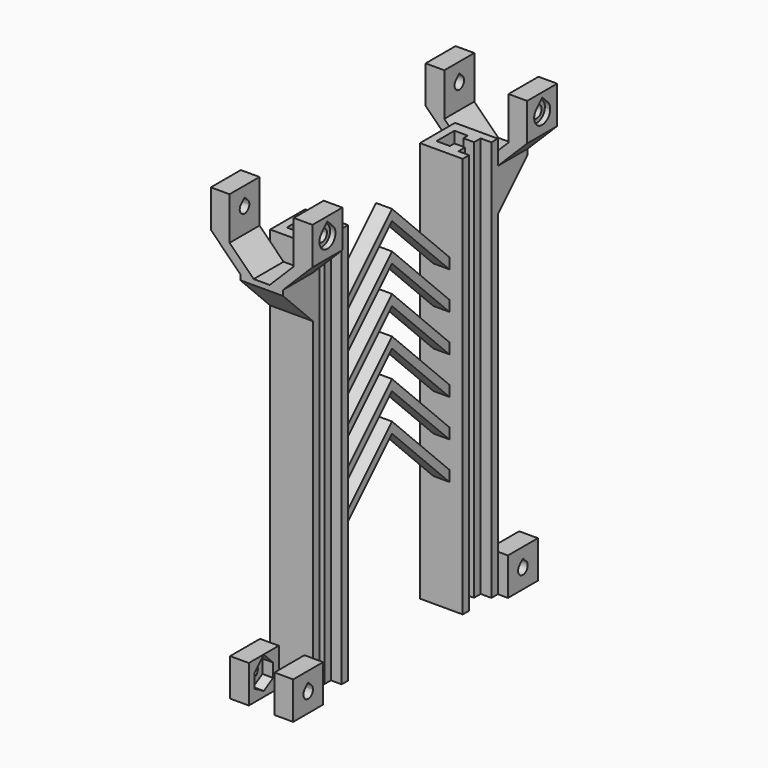
from build123d import *

# Parameters (mm, degrees)
F0_W      = 3
F0_H      = 8.4
F1_DEPTH  = 150
F4_DEPTH  = 4
F5_W      = 14
F5_H      = 14
F6_DEPTH  = 3
F10_DEPTH = 16
F12_DEPTH = 14
F14_DEPTH = 5
F15_W     = 14
F15_H     = 14
F16_DEPTH = 2
F19_DEPTH = 11
F20_DEPTH = 5


with BuildPart() as f1:
    # F0 (on Top) → F1 (new body)
    with BuildSketch(Plane.XY):
        Polygon((-3, 0), (0, 0), (5, 0), (5, -2.1), (9, -2.1), (9, 1), (13, 1), (13, 4), (-3, 4), align=None)
        Polygon((5, -8.4), (0, -8.4), (-3, -8.4), (-3, -12.4), (5, -12.4), (9.8, -12.4), (13, -12.4), (13, -9.4), (9, -9.4), (9, -6.3), (5, -6.3), align=None)
        with Locations((-1.5, -4.2)):
            Rectangle(F0_W, F0_H)
    extrude(amount=F1_DEPTH)

    # F8: F4 across plane


with BuildPart() as f4:
    # F3 (on line) → F4 (new body)
    with BuildSketch(Plane.YZ.offset(9.8)):
        Polygon((-19.4, 0), (-12.4, 0), (-12.4, 14), (-26.4, 14), (-26.4, 0), align=None)
        with BuildLine():
            ThreePointArc((-15.0265717109, 4.475), (-16.875, 2.6265717109), (-19.4, 1.95))
            ThreePointArc((-19.4, 1.95), (-21.925, 2.6265717109), (-23.7734282891, 4.475))
            ThreePointArc((-23.7734282891, 4.475), (-24.2779254228, 5.6929638222), (-24.45, 7))
            ThreePointArc((-24.45, 7), (-24.2779254228, 8.3070361778), (-23.7734282891, 9.525))
            ThreePointArc((-23.7734282891, 9.525), (-22.970889245, 10.570889245), (-21.925, 11.3734282891))
            Line((-21.925, 11.3734282891), (-19.4, 13.8984282891))
            Line((-19.4, 13.8984282891), (-16.875, 11.3734282891))
            ThreePointArc((-16.875, 11.3734282891), (-15.829110755, 10.570889245), (-15.0265717109, 9.525))
            ThreePointArc((-15.0265717109, 9.525), (-14.5220745772, 8.3070361778), (-14.35, 7))
            ThreePointArc((-14.35, 7), (-14.5220745772, 5.6929638222), (-15.0265717109, 4.475))
        make_face(mode=Mode.SUBTRACT)
        with BuildLine():
            Line((-15.0265717109, 9.525), (-15.0265717109, 4.475))
            ThreePointArc((-15.0265717109, 4.475), (-14.5220745772, 5.6929638222), (-14.35, 7))
            ThreePointArc((-14.35, 7), (-14.5220745772, 8.3070361778), (-15.0265717109, 9.525))
        make_face()
        with BuildLine():
            Line((-15.0265717109, 4.475), (-19.4, 1.95))
            ThreePointArc((-19.4, 1.95), (-16.875, 2.6265717109), (-15.0265717109, 4.475))
        make_face()
        with BuildLine():
            ThreePointArc((-23.7734282891, 4.475), (-21.925, 2.6265717109), (-19.4, 1.95))
            Line((-19.4, 1.95), (-23.7734282891, 4.475))
        make_face()
        with BuildLine():
            ThreePointArc((-24.45, 7), (-24.2779254228, 5.6929638222), (-23.7734282891, 4.475))
            Line((-23.7734282891, 4.475), (-23.7734282891, 7))
            Line((-23.7734282891, 7), (-24.45, 7))
        make_face()
        Polygon((-24.45, 7), (-23.7734282891, 7), (-23.7734282891, 7.6765717109), align=None)
        with BuildLine():
            ThreePointArc((-23.7734282891, 9.525), (-24.2779254228, 8.3070361778), (-24.45, 7))
            Line((-24.45, 7), (-23.7734282891, 7.6765717109))
            Line((-23.7734282891, 7.6765717109), (-23.7734282891, 9.525))
        make_face()
        with BuildLine():
            ThreePointArc((-21.925, 11.3734282891), (-22.970889245, 10.570889245), (-23.7734282891, 9.525))
            Line((-23.7734282891, 9.525), (-21.925, 11.3734282891))
        make_face()
        with BuildLine():
            Line((-16.875, 11.3734282891), (-15.0265717109, 9.525))
            ThreePointArc((-15.0265717109, 9.525), (-15.829110755, 10.570889245), (-16.875, 11.3734282891))
        make_face()
    extrude(amount=F4_DEPTH)

    # F5 (on face) → F6 (join)
    with BuildSketch(Plane.YZ.offset(13.8)):
        with Locations((-19.4, 7)):
            Rectangle(F5_W, F5_H)
        Polygon((-23.7734282891, 9.525), (-19.4, 13.8984282891), (-15.0265717109, 9.525), (-15.0265717109, 4.475), (-19.4, 1.95), (-23.7734282891, 4.475), align=None, mode=Mode.SUBTRACT)
        Polygon((-15.0265717109, 9.525), (-19.4, 13.8984282891), (-23.7734282891, 9.525), (-23.7734282891, 4.475), (-19.4, 1.95), (-15.0265717109, 4.475), align=None)
        with BuildLine():
            ThreePointArc((-17.8090097423, 8.5909902577), (-17.3212710518, 7.8610377228), (-17.15, 7))
            ThreePointArc((-17.15, 7), (-20.2610377228, 4.9212710518), (-20.9909902577, 8.5909902577))
            Line((-20.9909902577, 8.5909902577), (-19.4, 10.1819805153))
            Line((-19.4, 10.1819805153), (-17.8090097423, 8.5909902577))
        make_face(mode=Mode.SUBTRACT)
    extrude(amount=F6_DEPTH)


with BuildPart() as f1_1:
    add(f1.part)
    add(f4.part.mirror(Plane.YZ.offset(5)))



with BuildPart() as f10:
    # F9 (on face) → F10 (new body)
    with BuildSketch(Plane(origin=(-3, 0, 0), x_dir=(0, -1, 0), z_dir=(-1, 0, 0))):
        Polygon((26.4, 141), (12.4, 141), (12.4, 125), (26.4, 139), align=None)
    extrude(amount=-F10_DEPTH)


with BuildPart() as f12:
    # F11 (on face) → F12 (new body)
    with BuildSketch(Plane.XZ.offset(26.4)):
        Polygon((8, 141), (13, 141), (24, 152), (17, 152), (17, 150), align=None)
    extrude(amount=-F12_DEPTH)


with BuildPart() as f12b:
    # F11 (on face) → F12, piece 2 (new body)
    with BuildSketch(Plane.XZ.offset(26.4)):
        Polygon((-3, 141), (2, 141), (-7, 150), (-7, 152), (-14, 152), align=None)
    extrude(amount=-F12_DEPTH)


with BuildPart() as f14:
    # F13 (on face) → F14 (new body)
    with BuildSketch(Plane.YZ.offset(-7)):
        Polygon((-26.4, 152), (-19.4, 152), (-12.4, 152), (-12.4, 166), (-26.4, 166), align=None)
        with BuildLine():
            ThreePointArc((-17.15, 159), (-17.8090097423, 157.4090097423), (-19.4, 156.75))
            ThreePointArc((-19.4, 156.75), (-21.4787289482, 158.1389622772), (-20.9909902577, 160.5909902577))
            Line((-20.9909902577, 160.5909902577), (-19.4, 162.1819805153))
            Line((-19.4, 162.1819805153), (-17.8090097423, 160.5909902577))
            ThreePointArc((-17.8090097423, 160.5909902577), (-17.3212710518, 159.8610377228), (-17.15, 159))
        make_face(mode=Mode.SUBTRACT)
    extrude(amount=-F14_DEPTH)


with BuildPart() as f16:
    # F15 (on face) → F16 (new body)
    with BuildSketch(Plane(origin=(-12, 0, 0), x_dir=(0, -1, 0), z_dir=(-1, 0, 0))):
        with Locations((19.4, 159)):
            Rectangle(F15_W, F15_H)
        with BuildLine():
            ThreePointArc((22.0516504294, 161.6516504294), (22.8645482469, 160.4350628714), (23.15, 159))
            ThreePointArc((23.15, 159), (17.9649371286, 155.5354517531), (16.7483495706, 161.6516504294))
            Line((16.7483495706, 161.6516504294), (19.4, 164.3033008589))
            Line((19.4, 164.3033008589), (22.0516504294, 161.6516504294))
        make_face(mode=Mode.SUBTRACT)
    extrude(amount=F16_DEPTH)


with BuildPart() as f1_2:
    add(f1_1.part)

    add(f4.part)  # F17 merges F4

    add(f10.part)  # F17 merges F10

    add(f12.part)  # F17 merges F12

    add(f12b.part)  # F17 merges F12b

    add(f14.part)  # F17 merges F14

    add(f16.part)  # F17 merges F16
    # F17: F14, F16 across plane
    add(f14.part.mirror(Plane.YZ.offset(5)))
    add(f16.part.mirror(Plane.YZ.offset(5)))


with BuildPart() as f19:
    # F18 (on face) → F19 (new body)
    with BuildSketch(Plane(origin=(-3, 0, 0), x_dir=(0, -1, 0), z_dir=(-1, 0, 0))):
        Polygon((-30.8, 26.8), (-4, 0), (-4, 4), (-30.8, 30.8), align=None)
    extrude(amount=-F19_DEPTH)

    # F20 (cut): a face of the model
    f20_faces = [f19.faces().sort_by_distance(p)[0] for p in [
        (-3, 17.4, 15.4),
    ]]
    extrude(f20_faces, amount=-F20_DEPTH, mode=Mode.SUBTRACT)


with BuildPart() as f21_1:
    # F21: copy of F19
    add(f19.part.moved(Location((0, 0, 28))))


with BuildPart() as f22_1:
    # F22: copy of F21_1
    add(f21_1.part.moved(Location((0, 0, 28))))


with BuildPart() as f23_1:
    # F23: copy of F22_1
    add(f22_1.part.moved(Location((0, 0, 28))))


with BuildPart() as f24_1:
    # F24: copy of F23_1
    add(f23_1.part.moved(Location((0, 0, 28))))


with BuildPart() as f21_1_1:
    # F26: moved
    add(f21_1.part.moved(Location((0, 0, 14))))


with BuildPart() as f27_1:
    # F27: copy of F22_1
    add(f22_1.part.moved(Location((0, 0, 14))))


with BuildPart() as f27_2:
    # F27: copy of F23_1
    add(f23_1.part.moved(Location((0, 0, 14))))


with BuildPart() as f29_1:
    # F29: instance of F1
    add(f1_2.part.mirror(Plane(origin=(5, 30.8, 140.8), x_dir=(-1, 0, 0), z_dir=(0, 1, 0))))


with BuildPart() as f29_2:
    # F29: instance of F21_1
    add(f21_1_1.part.mirror(Plane(origin=(5, 30.8, 140.8), x_dir=(-1, 0, 0), z_dir=(0, 1, 0))))


with BuildPart() as f29_3:
    # F29: instance of F22_1
    add(f22_1.part.mirror(Plane(origin=(5, 30.8, 140.8), x_dir=(-1, 0, 0), z_dir=(0, 1, 0))))


with BuildPart() as f29_4:
    # F29: instance of F23_1
    add(f23_1.part.mirror(Plane(origin=(5, 30.8, 140.8), x_dir=(-1, 0, 0), z_dir=(0, 1, 0))))


with BuildPart() as f29_5:
    # F29: instance of F24_1
    add(f24_1.part.mirror(Plane(origin=(5, 30.8, 140.8), x_dir=(-1, 0, 0), z_dir=(0, 1, 0))))


with BuildPart() as f29_6:
    # F29: instance of F27_1
    add(f27_1.part.mirror(Plane(origin=(5, 30.8, 140.8), x_dir=(-1, 0, 0), z_dir=(0, 1, 0))))


with BuildPart() as f29_7:
    # F29: instance of F27_2
    add(f27_2.part.mirror(Plane(origin=(5, 30.8, 140.8), x_dir=(-1, 0, 0), z_dir=(0, 1, 0))))


with BuildPart() as f1_3:
    add(f1_2.part)

    # F30: union F21_1, F22_1, F23_1, F24_1, F27_1, F27_2, F29_1, F29_2, F29_3, F29_4, F29_5, F29_6, F29_7
    add(f21_1_1.part)
    add(f22_1.part)
    add(f23_1.part)
    add(f24_1.part)
    add(f27_1.part)
    add(f27_2.part)
    add(f29_1.part)
    add(f29_2.part)
    add(f29_3.part)
    add(f29_4.part)
    add(f29_5.part)
    add(f29_6.part)
    add(f29_7.part)


solid = f1_3.part
